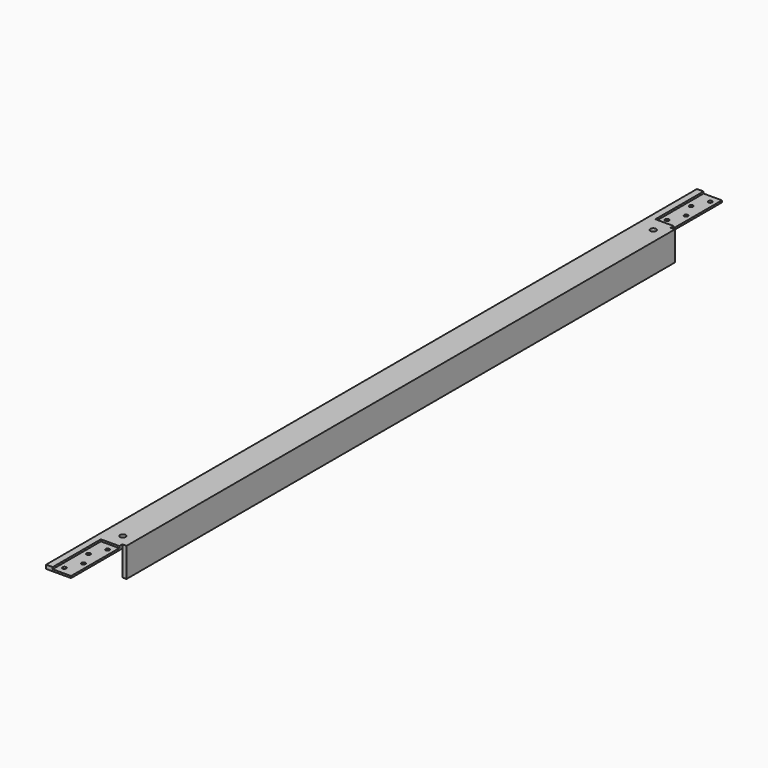
from build123d import *

# Parameters (mm, degrees)
F1_DEPTH = 685.8
F2_W     = 30.95625
F2_H     = 101.6
F2_R     = 3.175
F3_DEPTH = 3.175
F4_DEPTH = 49.2262
F5_D     = 6.35
F7_D     = 9.525


with BuildPart() as f1:
    # F0 (on Front) → F1 (new body, symmetric)
    with BuildSketch(Plane.XZ):
        Polygon((18.2626, -24.6126), (24.6126, -24.6126), (24.6126, 24.6126), (-24.6126, 24.6126), (-24.6126, 18.2626), (18.2626, 18.2626), align=None)
    extrude(amount=F1_DEPTH, both=True)

    # F2 (on face) → F3 (cut)
    with BuildSketch(Plane.XY.offset(24.6126)):
        with Locations((1.990725, -635)):
            Rectangle(F2_W, F2_H)
        with Locations((-3.9624, -673.1)):
            Circle(F2_R, mode=Mode.SUBTRACT)
        with Locations((-3.9624, -622.3)):
            Circle(F2_R, mode=Mode.SUBTRACT)
        with Locations((7.94385, -647.7)):
            Circle(F2_R, mode=Mode.SUBTRACT)
        with Locations((7.94385, -596.9)):
            Circle(F2_R, mode=Mode.SUBTRACT)
        with Locations((1.990725, 635)):
            Rectangle(F2_W, F2_H)
        with Locations((-3.9624, 596.9)):
            Circle(F2_R, mode=Mode.SUBTRACT)
        with Locations((-3.9624, 647.7)):
            Circle(F2_R, mode=Mode.SUBTRACT)
        with Locations((7.94385, 622.3)):
            Circle(F2_R, mode=Mode.SUBTRACT)
        with Locations((7.94385, 673.1)):
            Circle(F2_R, mode=Mode.SUBTRACT)
    extrude(amount=-F3_DEPTH, mode=Mode.SUBTRACT)

    # F2 (on face) → F4 (cut, through all)
    with BuildSketch(Plane.XY.offset(24.6126)):
        Polygon((17.46885, 577.85), (24.6126, 577.85), (24.6126, 685.8), (17.46885, 685.8), (17.46885, 584.2), align=None)
        Polygon((17.46885, -685.8), (24.6126, -685.8), (24.6126, -577.85), (17.46885, -577.85), (17.46885, -584.2), align=None)
    extrude(amount=-F4_DEPTH, mode=Mode.SUBTRACT)

    # F5 (through all)
    with Locations(Plane.XY.offset(24.6126)):
        with Locations((7.94385, -647.7), (-3.9624, -673.1), (-3.9624, -622.3), (7.94385, -596.9), (-3.9624, 647.7), (7.94385, 673.1), (7.94385, 622.3), (-3.9624, 596.9)):
            Hole(F5_D / 2)

    # F7 (through all)
    with Locations(Plane.XY.offset(24.6126)):
        with Locations((3.284499, -558.8), (3.284499, 558.8)):
            Hole(F7_D / 2)


solid = f1.part
